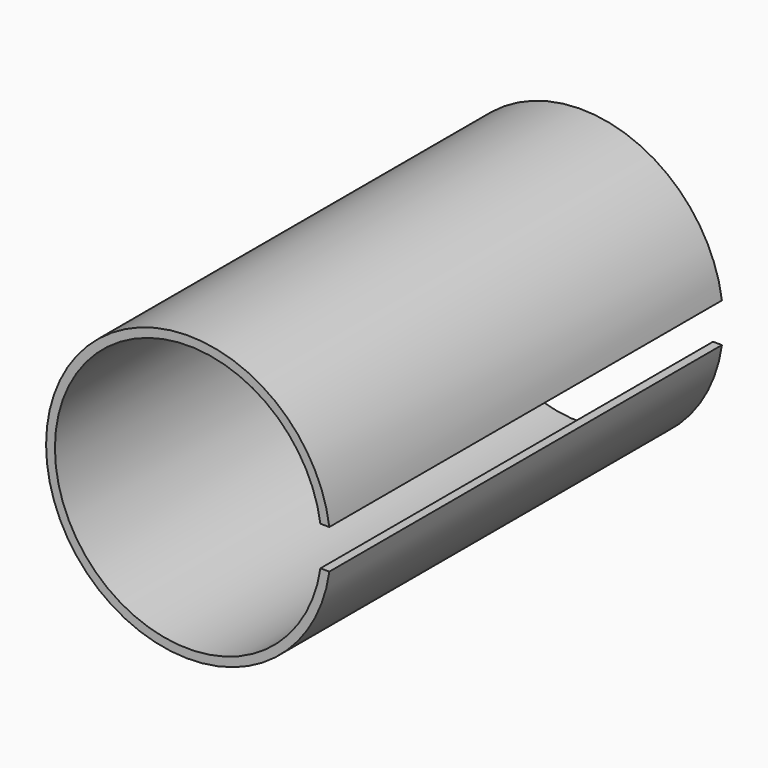
from build123d import *

# Parameters (mm, degrees)
F1_DEPTH = 50
F2_DEPTH = 50


with BuildPart() as f1:
    # F0 (on Front) → F1 (new body)
    with BuildSketch(Plane.XZ):
        with BuildLine():
            ThreePointArc((13.4521373766, -2), (-13.6, 0), (13.4521373766, 2))
            Line((13.4521373766, 2), (14.3614066163, 2))
            ThreePointArc((14.3614066163, 2), (-14.5, 0), (14.3614066163, -2))
            Line((14.3614066163, -2), (13.4521373766, -2))
        make_face()
        with BuildLine():
            ThreePointArc((13.4521373766, 2), (13.5629839697, 1.0027291952), (13.6, 0))
            ThreePointArc((13.6, 0), (13.5629839697, -1.0027291952), (13.4521373766, -2))
            Line((13.4521373766, -2), (14.3614066163, -2))
            ThreePointArc((14.3614066163, -2), (14.465310158, -1.0023981402), (14.5, 0))
            ThreePointArc((14.5, 0), (14.465310158, 1.0023981402), (14.3614066163, 2))
            Line((14.3614066163, 2), (13.4521373766, 2))
        make_face()
    extrude(amount=F1_DEPTH)

    # F0 (on Front) → F2 (cut)
    with BuildSketch(Plane.XZ):
        with BuildLine():
            Line((19.9760421067, 2), (16.3783393542, 2))
            ThreePointArc((16.3783393542, 2), (16.469556754, 1.0018484557), (16.5, 0))
            ThreePointArc((16.5, 0), (16.469556754, -1.0018484557), (16.3783393542, -2))
            Line((16.3783393542, -2), (19.9760421067, -2))
            Line((19.9760421067, -2), (19.9760421067, 2))
        make_face()
        with BuildLine():
            Line((16.3783393542, 2), (14.3614066163, 2))
            ThreePointArc((14.3614066163, 2), (14.465310158, 1.0023981402), (14.5, 0))
            ThreePointArc((14.5, 0), (14.465310158, -1.0023981402), (14.3614066163, -2))
            Line((14.3614066163, -2), (16.3783393542, -2))
            ThreePointArc((16.3783393542, -2), (16.469556754, -1.0018484557), (16.5, 0))
            ThreePointArc((16.5, 0), (16.469556754, 1.0018484557), (16.3783393542, 2))
        make_face()
        with BuildLine():
            ThreePointArc((13.4521373766, 2), (13.5629839697, 1.0027291952), (13.6, 0))
            ThreePointArc((13.6, 0), (13.5629839697, -1.0027291952), (13.4521373766, -2))
            Line((13.4521373766, -2), (14.3614066163, -2))
            ThreePointArc((14.3614066163, -2), (14.465310158, -1.0023981402), (14.5, 0))
            ThreePointArc((14.5, 0), (14.465310158, 1.0023981402), (14.3614066163, 2))
            Line((14.3614066163, 2), (13.4521373766, 2))
        make_face()
        with BuildLine():
            ThreePointArc((13.4521373766, -2), (13.5629839697, -1.0027291952), (13.6, 0))
            ThreePointArc((13.6, 0), (13.5629839697, 1.0027291952), (13.4521373766, 2))
            Line((13.4521373766, 2), (7.9760421067, 2))
            Line((7.9760421067, 2), (7.9760421067, -2))
            Line((7.9760421067, -2), (13.4521373766, -2))
        make_face()
    extrude(amount=F2_DEPTH, mode=Mode.SUBTRACT)


solid = f1.part
